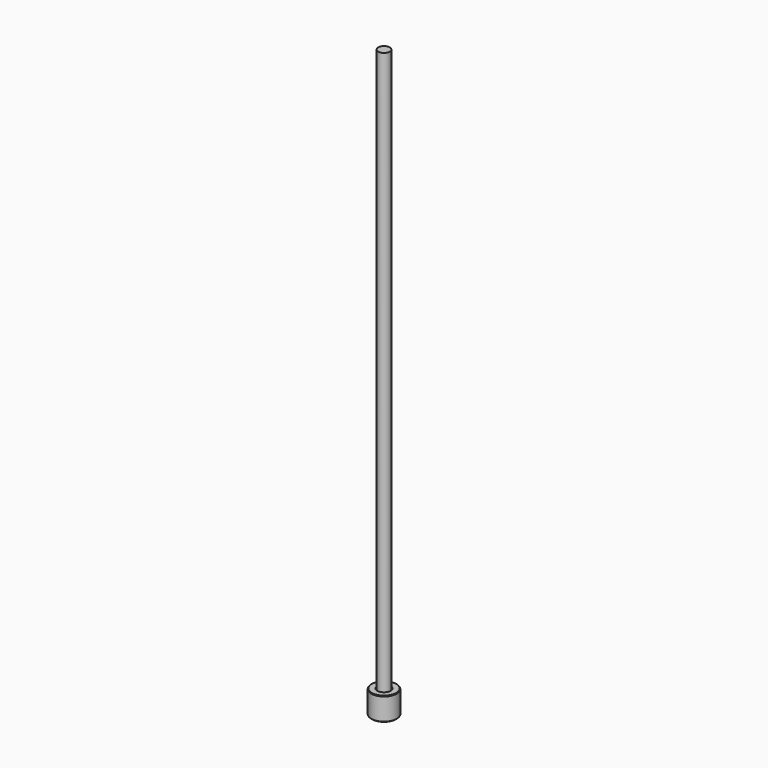
from build123d import *

# Parameters (mm, degrees)
F0_R     = 7.5
F0_R_2   = 5
F1_DEPTH = 10
F0_R_3   = 10.5
F2_DEPTH = 3
F3_R     = 11
F3_R_2   = 4
F4_DEPTH = 20
F5_SIZE  = 1.75
F6_SIZE  = 0.5
F7_R     = 5
F8_DEPTH = 505


with BuildPart() as f1:
    # F0 (on Top) → F1 (new body)
    with BuildSketch(Plane.XY):
        Circle(F0_R)
        Circle(F0_R_2, mode=Mode.SUBTRACT)
    extrude(amount=F1_DEPTH)

    # F0 (on Top) → F2 (join)
    with BuildSketch(Plane.XY):
        Circle(F0_R_3)
        Circle(F0_R, mode=Mode.SUBTRACT)
    extrude(amount=F2_DEPTH)


with BuildPart() as f4:
    # F3 (on Top) → F4 (new body)
    with BuildSketch(Plane.XY):
        Circle(F3_R)
        Circle(F3_R_2, mode=Mode.SUBTRACT)
    extrude(amount=F4_DEPTH)

    # F5
    f5_edges = [f4.edges().sort_by_distance(p)[0] for p in [
        (-4, 0, 20),
        (-4, 0, 0),
    ]]
    chamfer(f5_edges, length=F5_SIZE)

    # F6
    f6_edges = [f4.edges().sort_by_distance(p)[0] for p in [
        (-11, 0, 20),
        (-11, 0, 0),
    ]]
    chamfer(f6_edges, length=F6_SIZE)


with BuildPart() as f8:
    # F7 (on Top) → F8 (new body)
    with BuildSketch(Plane.XY):
        Circle(F7_R)
    extrude(amount=F8_DEPTH)


solid = Compound([f1.part, f4.part, f8.part])
